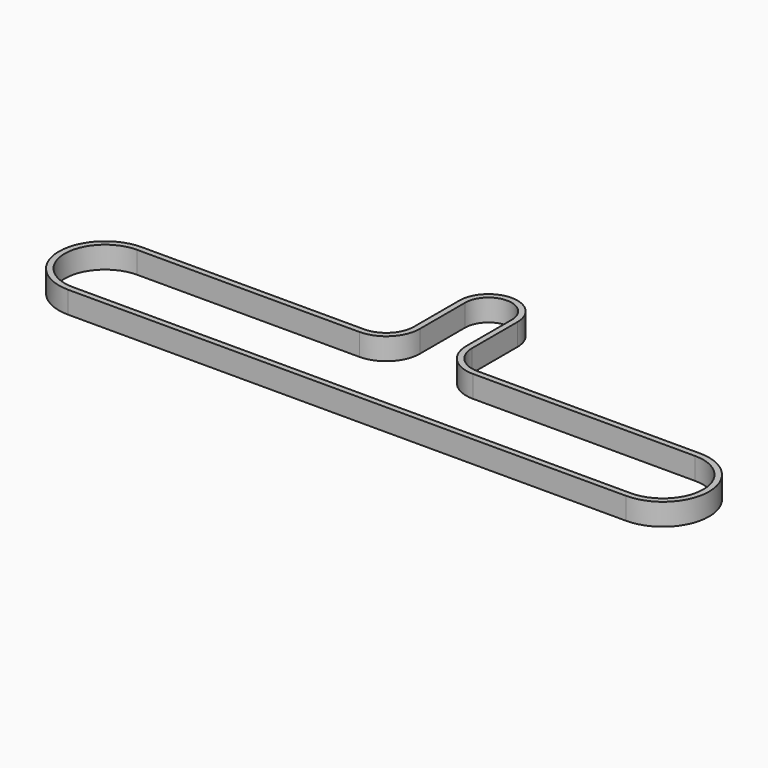
from build123d import *

# Parameters (mm, degrees)
F1_DEPTH = 6


with BuildPart() as f1:
    # F0 (on Top) → F1 (new body)
    with BuildSketch(Plane.XY):
        with BuildLine():
            ThreePointArc((15.499994, -23.062489), (10.152503, -20.847485), (7.9375, -15.499994))
            Line((7.9375, -15.499994), (7.9375, 0))
            ThreePointArc((7.9375, 0), (0, 7.9375), (-7.9375, 0))
            Line((-7.9375, 0), (-7.9375, -15.499994))
            ThreePointArc((-7.9375, -15.499994), (-10.152503, -20.847485), (-15.499994, -23.062489))
            Line((-15.499994, -23.062489), (-76.2, -23.062489))
            ThreePointArc((-76.2, -23.062489), (-88.7875, -35.649989), (-76.2, -48.237489))
            Line((-76.2, -48.237489), (76.2, -48.237489))
            ThreePointArc((76.2, -48.237489), (88.7875, -35.649989), (76.2, -23.062489))
            Line((76.2, -23.062489), (15.499994, -23.062489))
        make_face()
        with BuildLine():
            Line((6.35, 0), (6.35, -15.499994))
            ThreePointArc((6.35, -15.499994), (9.029971, -21.970017), (15.499994, -24.649989))
            Line((15.499994, -24.649989), (76.2, -24.649989))
            ThreePointArc((76.2, -24.649989), (87.2, -35.649989), (76.2, -46.649989))
            Line((76.2, -46.649989), (-76.2, -46.649989))
            ThreePointArc((-76.2, -46.649989), (-87.2, -35.649989), (-76.2, -24.649989))
            Line((-76.2, -24.649989), (-15.499994, -24.649989))
            ThreePointArc((-15.499994, -24.649989), (-9.029971, -21.970017), (-6.35, -15.499994))
            Line((-6.35, -15.499994), (-6.35, 0))
            ThreePointArc((-6.35, 0), (0, 6.35), (6.35, 0))
        make_face(mode=Mode.SUBTRACT)
    extrude(amount=F1_DEPTH)


solid = f1.part
